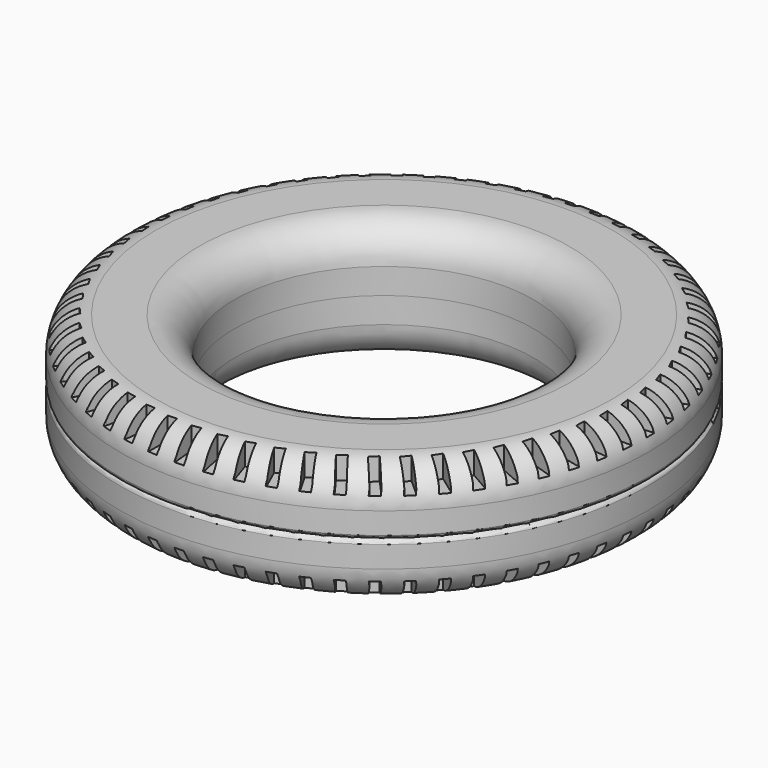
from build123d import *

# Parameters (mm, degrees)
F0_R     = 13.4
F0_R_2   = 7.6
F1_DEPTH = 3.1
F2_R     = 0.2
F3_R     = 1.8
F5_DEPTH = 2
F8_R     = 1.5
F9_DEPTH = 1.5


with BuildPart() as f1:
    # F0 (on Top) → F1 (new body)
    with BuildSketch(Plane.XY):
        Circle(F0_R)
        Circle(F0_R_2, mode=Mode.SUBTRACT)
    extrude(amount=F1_DEPTH)

    # F2
    f2_edges = [f1.edges().sort_by_distance(p)[0] for p in [
        (-13.4, 0, 0),
    ]]
    fillet(f2_edges, radius=F2_R)

    # F3
    f3_edges = [f1.edges().sort_by_distance(p)[0] for p in [
        (-13.4, 0, 3.1),
        (-7.6, 0, 3.1),
    ]]
    fillet(f3_edges, radius=F3_R)


with BuildPart() as f5:
    # F4 (on Top) → F5 (new body)
    with BuildSketch(Plane.XY):
        Polygon((-0.125245, 13.179187), (0, 13.729245), (-0.477854, 13.729245), (-0.603098, 13.179187), (-0.471612, 12.036274), (0, 12.09053), align=None)
        Polygon((1.267362, 12.023923), (1.256923, 13.11971), (1.439136, 13.65361), (0.963915, 13.7037), (0.781701, 13.1698), (0.79266, 12.019401), align=None)
        Polygon((2.520759, 11.824834), (2.625241, 12.915679), (2.862415, 13.427537), (2.395063, 13.527165), (2.157888, 13.015307), (2.048199, 11.870096), align=None)
        Polygon((3.746382, 11.495457), (3.964634, 12.569341), (4.254156, 13.053518), (3.799821, 13.201586), (3.5103, 12.717409), (3.28117, 11.590005), align=None)
        Polygon((4.930728, 11.039422), (5.260345, 12.084512), (5.599024, 12.535673), (5.162713, 12.73055), (4.824034, 12.279389), (4.477989, 11.182214), align=None)
        Polygon((6.060746, 10.461753), (6.498096, 11.466534), (6.882201, 11.879709), (6.468722, 12.119248), (6.084616, 11.706073), (5.625469, 10.651216), align=None)
        Polygon((7.123985, 9.768815), (7.66425, 10.722216), (8.08955, 11.092852), (7.703457, 11.374413), (7.278157, 11.003778), (6.710967, 10.002861), align=None)
        Polygon((8.108732, 8.968243), (8.745958, 9.85976), (9.207766, 10.183773), (8.853314, 10.504254), (8.391506, 10.180241), (7.722522, 9.244293), align=None)
        Polygon((9.004136, 8.068858), (9.731302, 8.888667), (10.22453, 9.162487), (9.905624, 9.518357), (9.412397, 9.244538), (8.64899, 8.38387), align=None)
        Polygon((9.80033, 7.080568), (10.609425, 7.819638), (11.128638, 8.040248), (10.848793, 8.427586), (10.32958, 8.206976), (9.480161, 7.431073), align=None)
        Polygon((10.488544, 6.014264), (11.370653, 6.664451), (11.91013, 6.82942), (11.672428, 7.243959), (11.132951, 7.07899), (10.206879, 6.396399), align=None)
        Polygon((11.061193, 4.881694), (12.006596, 5.435834), (12.560394, 5.543345), (12.367455, 5.980516), (11.813657, 5.873005), (10.821136, 5.291248), align=None)
        Polygon((11.511968, 3.695337), (12.51025, 4.147324), (13.072266, 4.196192), (12.926216, 4.65118), (12.364199, 4.602312), (11.316165, 4.127798), align=None)
        Polygon((11.835903, 2.468264), (12.876063, 2.813119), (13.440106, 2.802806), (13.342553, 3.270596), (12.77851, 3.280909), (11.68651, 2.918868), align=None)
        Polygon((12.029428, 1.213996), (13.100007, 1.447918), (13.659861, 1.378537), (13.611881, 1.853976), (13.052026, 1.923357), (11.928092, 1.677776), align=None)
        Polygon((12.090411, -0.053649), (13.179613, 0.066764), (13.72911, -0.06092), (13.731231, 0.416929), (13.181733, 0.544613), (12.038248, 0.418199), align=None)
        Polygon((12.018181, -1.320702), (13.114004, -1.315126), (13.64709, -1.499706), (13.699288, -1.024712), (13.166202, -0.840132), (12.015765, -0.845986), align=None)
        Polygon((11.813532, -2.573204), (12.903903, -2.682526), (13.414704, -2.921969), (13.516405, -2.455063), (13.005603, -2.21562), (11.860891, -2.10085), align=None)
        Polygon((11.478721, -3.797354), (12.551625, -4.020369), (13.034513, -4.312036), (13.184596, -3.858363), (12.701708, -3.566695), (11.575332, -3.332566), align=None)
        Polygon((11.017435, -4.979664), (12.061051, -5.313915), (12.510706, -5.654593), (12.707517, -5.219151), (12.257862, -4.878473), (11.162234, -4.527564), align=None)
        Polygon((10.434757, -6.107108), (11.437587, -6.548912), (11.849054, -6.934847), (12.090425, -6.522434), (11.678959, -6.136499), (10.626149, -5.672676), align=None)
        Polygon((9.737108, -7.167262), (10.688103, -7.711751), (11.056847, -8.138692), (11.340119, -7.753852), (10.971374, -7.326912), (9.972984, -6.755286), align=None)
        Polygon((8.932174, -8.148447), (9.820855, -8.789622), (10.142815, -9.252863), (10.464866, -8.899837), (10.142906, -8.436596), (9.209935, -7.763465), align=None)
        Polygon((8.028825, -9.039851), (8.8454, -9.770648), (9.117028, -10.265085), (9.47431, -9.947762), (9.202681, -9.453325), (8.34541, -8.686106), align=None)
        Polygon((7.037012, -9.831652), (7.772484, -10.644019), (7.990788, -11.164205), (8.379364, -10.886082), (8.161061, -10.365895), (7.388934, -9.513042), align=None)
        Polygon((5.967665, -10.515127), (6.613931, -11.400113), (6.776505, -11.940317), (7.192094, -11.704457), (7.02952, -11.164253), (6.351045, -10.235161), align=None)
        Polygon((4.832565, -11.082745), (5.382504, -12.030598), (5.487557, -12.584868), (5.92558, -12.393871), (5.820527, -11.839601), (5.24318, -10.844508), align=None)
        Polygon((3.644219, -11.528252), (4.091772, -12.528529), (4.138146, -13.090757), (4.593777, -12.946727), (4.547403, -12.384499), (4.077545, -11.334369), align=None)
        Polygon((2.415721, -11.846739), (2.755957, -12.888419), (2.743141, -13.452411), (3.211359, -13.356934), (3.224175, -12.792943), (2.866983, -11.699347), align=None)
        Polygon((1.160606, -12.034696), (1.389776, -13.106303), (1.317911, -13.665844), (1.793558, -13.619973), (1.865423, -13.060432), (1.624832, -11.935419), align=None)
        Polygon((-0.107297, -12.090054), (0.008282, -13.179779), (-0.121839, -13.728705), (0.355996, -13.732945), (0.486117, -13.18402), (0.364778, -12.039985), align=None)
        Polygon((-1.374017, -12.012202), (-1.373303, -13.108039), (-1.560247, -13.640301), (-1.085489, -13.694606), (-0.898545, -13.162344), (-0.899295, -12.011893), align=None)
        Polygon((-2.625599, -11.801998), (-2.739757, -12.891873), (-2.981464, -13.401606), (-2.515014, -13.505378), (-2.273307, -12.995644), (-2.153459, -11.851452), align=None)
        Polygon((-3.848251, -11.461758), (-4.076024, -12.533662), (-4.369831, -13.015251), (-3.916829, -13.167345), (-3.623021, -12.685756), (-3.383896, -11.56043), align=None)
        Polygon((-5.028502, -10.99523), (-5.367381, -12.037353), (-5.710051, -12.485492), (-5.275487, -12.684233), (-4.932816, -12.236095), (-4.577049, -11.142034), align=None)
        Polygon((-6.153349, -10.407556), (-6.599599, -11.408416), (-6.987356, -11.818165), (-6.576019, -12.061364), (-6.188261, -11.651614), (-5.719771, -10.600873), align=None)
        Polygon((-7.210398, -9.705209), (-7.759101, -10.653778), (-8.187674, -11.020625), (-7.804095, -11.305601), (-7.375523, -10.938755), (-6.799472, -9.942911), align=None)
        Polygon((-8.188001, -8.89593), (-8.833113, -9.781756), (-9.297779, -10.101658), (-8.946185, -10.425272), (-8.48152, -10.105371), (-7.804256, -9.175396), align=None)
        Polygon((-9.075388, -7.988633), (-9.809801, -8.801958), (-10.305439, -9.071389), (-9.989704, -9.430076), (-9.494066, -9.160644), (-8.723051, -8.306785), align=None)
        Polygon((-9.86278, -6.993317), (-10.678403, -7.725178), (-11.199553, -7.941171), (-10.923156, -8.330977), (-10.402006, -8.114984), (-9.545735, -7.346649), align=None)
        Polygon((-10.541504, -5.920948), (-11.429348, -6.56328), (-11.970268, -6.723456), (-11.736255, -7.140087), (-11.195335, -6.979912), (-10.263242, -6.305567), align=None)
        Polygon((-11.104079, -4.78334), (-12.054364, -5.329068), (-12.609094, -5.43166), (-12.420042, -5.870527), (-11.865312, -5.767935), (-10.867667, -5.195009), align=None)
        Polygon((-11.544309, -3.593029), (-12.546562, -4.03614), (-13.10899, -4.080018), (-12.966983, -4.536284), (-12.404555, -4.492405), (-11.352351, -4.027211), align=None)
        Polygon((-11.857341, -2.36313), (-12.900521, -2.69874), (-13.46445, -2.683422), (-13.371053, -3.152059), (-12.807123, -3.167378), (-11.711953, -2.815041), align=None)
        Polygon((-12.039728, -1.107193), (-13.112341, -1.331606), (-13.671557, -1.257259), (-13.627798, -1.733105), (-13.068581, -1.807452), (-11.942511, -1.571855), align=None)
        Polygon((-12.089459, 0.160942), (-13.179686, 0.0502), (-13.728029, 0.182756), (-13.73439, -0.295055), (-13.186047, -0.427611), (-12.041485, -0.31135), align=None)
        Polygon((-12.005987, 1.427305), (-13.101816, 1.431454), (-13.633243, 1.620758), (-13.689655, 1.146245), (-13.158228, 0.956941), (-12.007784, 0.952586), align=None)
        Polygon((-11.790231, 2.677941), (-12.879589, 2.796935), (-13.388245, 3.040902), (-13.494085, 2.574916), (-12.985429, 2.33095), (-11.84178, 2.206026), align=None)
        Polygon((-11.444569, 3.899072), (-12.515452, 4.131599), (-12.995733, 4.42754), (-13.149836, 3.975217), (-12.669555, 3.679276), (-11.545301, 3.435159), align=None)
        Polygon((-10.972809, 5.077242), (-12.013418, 5.420741), (-12.460032, 5.765396), (-12.660699, 5.331718), (-12.214086, 4.987063), (-11.121615, 4.626444), align=None)
        Polygon((-10.380149, 6.19947), (-11.379019, 6.650156), (-11.787044, 7.039728), (-12.032066, 6.629473), (-11.624041, 6.239901), (-10.575389, 5.766754), align=None)
        Polygon((-9.673119, 7.253391), (-10.619244, 7.806299), (-10.984186, 8.236495), (-11.270861, 7.854184), (-10.90592, 7.423988), (-9.912642, 6.843525), align=None)
        Polygon((-8.85951, 8.227394), (-9.742465, 8.876431), (-10.060302, 9.342511), (-10.385473, 8.992356), (-10.067636, 8.526276), (-9.140676, 7.844893), align=None)
        Polygon((-7.948285, 9.110746), (-8.758342, 9.848761), (-9.025572, 10.34559), (-9.385656, 10.03145), (-9.118426, 9.534621), (-8.267997, 8.759825), align=None)
        Polygon((-6.949485, 9.893714), (-7.677719, 10.712576), (-7.891397, 11.23468), (-8.282427, 10.960015), (-8.068748, 10.437912), (-7.30422, 9.57824), align=None)
        Polygon((-5.874114, 10.567673), (-6.512501, 11.458359), (-6.670274, 11.999984), (-7.08794, 11.767822), (-6.930167, 11.226196), (-6.259964, 10.29112), align=None)
        Polygon((-4.734022, 11.125195), (-5.275527, 12.077891), (-5.375657, 12.633071), (-5.815358, 12.445969), (-5.715228, 11.890789), (-5.146735, 10.890612), align=None)
        Polygon((-3.541769, 11.560138), (-3.980428, 12.564348), (-4.02181, 13.126966), (-4.478701, 12.986984), (-4.437319, 12.424367), (-3.976798, 11.370109), align=None)
        Polygon((-2.310493, 11.86771), (-2.641471, 12.912369), (-2.62365, 13.476225), (-3.092697, 13.384907), (-3.110518, 12.821052), (-2.763045, 11.724329), align=None)
        Polygon((-1.053759, 12.044522), (-1.27341, 13.11812), (-1.196583, 13.677001), (-1.672618, 13.635354), (-1.749445, 13.076472), (-1.518848, 11.949368), align=None)
    extrude(amount=F5_DEPTH)


with BuildPart() as f5_1:
    # F6: moved
    add(f5.part.moved(Location((0, 0, 1.91))))


with BuildPart() as f1_1:
    add(f1.part)

    # F7: cut F5
    add(f5_1.part, mode=Mode.SUBTRACT)

    # F8 (on face) → F9 (cut)
    with BuildSketch(Plane(origin=(0, 0, 0), x_dir=(1, 0, 0), z_dir=(0, 0, -1))):
        with Locations((-10, 0)):
            Circle(F8_R)
        with Locations((10, 0)):
            Circle(F8_R)
    extrude(amount=-F9_DEPTH, mode=Mode.SUBTRACT)


with BuildPart() as f10_1:
    # F10: instance of F1
    add(f1_1.part.mirror(Plane(origin=(0, 0, 0), x_dir=(1, 0, 0), z_dir=(0, 0, -1))))


solid = Compound([f1_1.part, f10_1.part])
